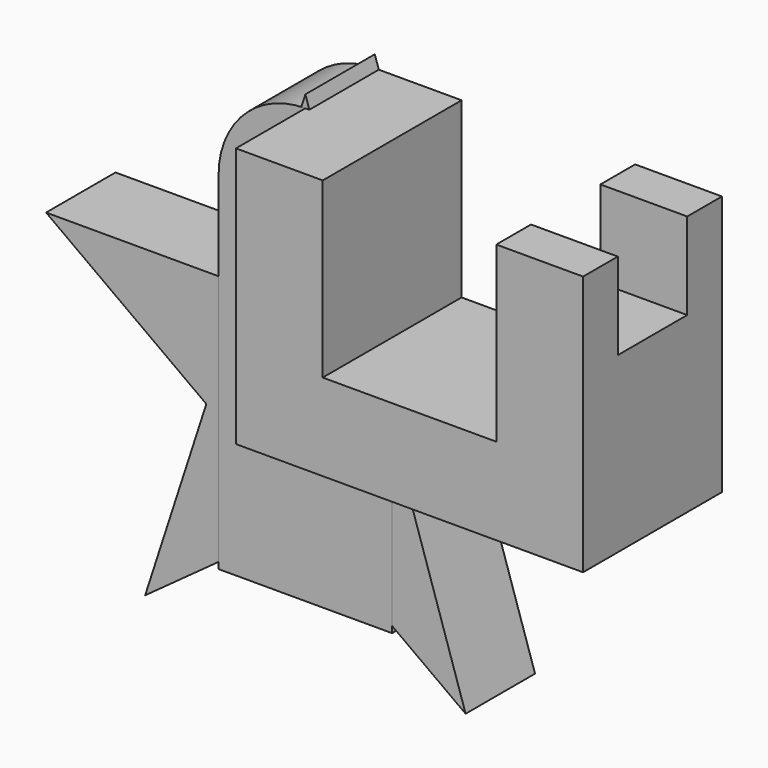
from build123d import *

# Parameters (mm, degrees)
F1_DEPTH = 25
F3_DEPTH = 25
F5_DEPTH = 50
F6_W     = 25
F6_H     = 25
F7_DEPTH = 25


with BuildPart() as f1:
    # F0 (on Front) → F1 (new body)
    with BuildSketch(Plane.XZ):
        with BuildLine():
            ThreePointArc((-28.531695, -9.27051), (-28.531695, 9.27051), (-17.633558, 24.27051))
            Line((-17.633558, 24.27051), (-74.696949, 24.27051))
            Line((-74.696949, 24.27051), (-28.531695, -9.27051))
        make_face()
        with BuildLine():
            ThreePointArc((17.633558, 24.27051), (0, 30), (-17.633558, 24.27051))
            ThreePointArc((-17.633558, 24.27051), (-28.531695, 9.27051), (-28.531695, -9.27051))
            ThreePointArc((-28.531695, -9.27051), (-17.633558, -24.27051), (0, -30))
            ThreePointArc((0, -30), (17.633558, -24.27051), (28.531695, -9.27051))
            ThreePointArc((28.531695, -9.27051), (29.63065, -4.693034), (30, 0))
            ThreePointArc((30, 0), (26.730196, 13.619715), (17.633558, 24.27051))
        make_face()
        with BuildLine():
            Line((17.633558, 24.27051), (0, 78.54102))
            Line((0, 78.54102), (-17.633558, 24.27051))
            ThreePointArc((-17.633558, 24.27051), (0, 30), (17.633558, 24.27051))
        make_face()
        with BuildLine():
            Line((74.696949, 24.27051), (17.633558, 24.27051))
            ThreePointArc((17.633558, 24.27051), (26.730196, 13.619715), (30, 0))
            ThreePointArc((30, 0), (29.63065, -4.693034), (28.531695, -9.27051))
            Line((28.531695, -9.27051), (74.696949, 24.27051))
        make_face()
        with BuildLine():
            ThreePointArc((28.531695, -9.27051), (17.633558, -24.27051), (0, -30))
            Line((0, -30), (46.165253, -63.54102))
            Line((46.165253, -63.54102), (28.531695, -9.27051))
        make_face()
        with BuildLine():
            ThreePointArc((0, -30), (-17.633558, -24.27051), (-28.531695, -9.27051))
            Line((-28.531695, -9.27051), (-46.165253, -63.54102))
            Line((-46.165253, -63.54102), (0, -30))
        make_face()
    extrude(amount=F1_DEPTH)


with BuildPart() as f3:
    # F2 (on Front) → F3 (new body)
    with BuildSketch(Plane.XZ):
        with BuildLine():
            Line((25, -50), (25, 50))
            ThreePointArc((25, 50), (0, 25), (-25, 50))
            Line((-25, 50), (-25, -50))
            Line((-25, -50), (25, -50))
        make_face()
        with BuildLine():
            ThreePointArc((-12.5, 50), (0, 62.5), (12.5, 50))
            Line((12.5, 50), (25, 50))
            ThreePointArc((25, 50), (0, 75), (-25, 50))
            Line((-25, 50), (-12.5, 50))
        make_face()
        with BuildLine():
            Line((25, 50), (12.5, 50))
            ThreePointArc((12.5, 50), (0, 37.5), (-12.5, 50))
            Line((-12.5, 50), (-25, 50))
            ThreePointArc((-25, 50), (0, 25), (25, 50))
        make_face()
    extrude(amount=F3_DEPTH)


with BuildPart() as f5:
    # F4 (on Front) → F5 (new body)
    with BuildSketch(Plane.XZ):
        Polygon((0, 75), (0, 0), (100, 0), (100, 75), (75, 75), (75, 25), (25, 25), (25, 75), align=None)
    extrude(amount=F5_DEPTH)

    # F6 (on face) → F7 (cut)
    with BuildSketch(Plane.XY.offset(75)):
        with Locations((87.5, -25)):
            Rectangle(F6_W, F6_H)
    extrude(amount=-F7_DEPTH, mode=Mode.SUBTRACT)


solid = Compound([f1.part, f3.part, f5.part])
